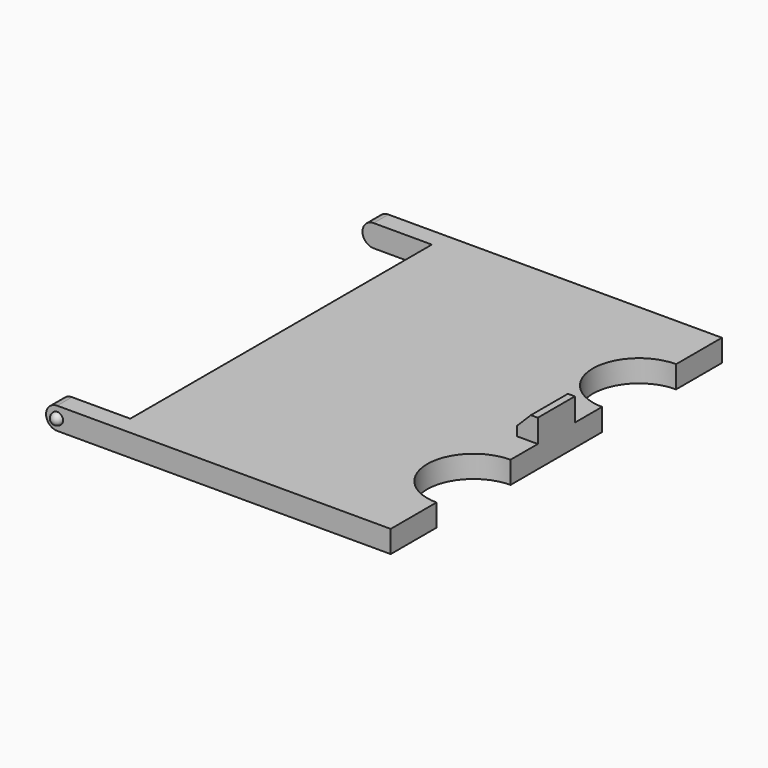
from build123d import *

# Parameters (mm, degrees)
F1_DEPTH  = 4.8
F5_R      = 10
F6_DEPTH  = 4.8010001
F7_W      = 4.5
F7_H      = 10
F8_DEPTH  = 5
F9_SIZE   = 3
F10_DEPTH = 90.7632899895


with BuildPart() as f1:
    # F0 (on Top) → F1 (new body)
    with BuildSketch(Plane.XY):
        Polygon((-37.25, -40.75), (-37.25, -44.75), (37.25, -44.75), (37.25, 44.75), (-37.25, 44.75), (-37.25, 40.75), (-22.25, 40.75), (-22.25, -40.75), align=None)
    extrude(amount=F1_DEPTH)

    # F2 (on face) → F3 (revolve)
    with BuildSketch(Plane.XZ.offset(44.75)):
        with BuildLine():
            Line((-34.8377101105, 1.150060418), (-34.8377101105, 3.649939582))
            ThreePointArc((-34.8377101105, 3.649939582), (-36.1, 2.4), (-34.8377101105, 1.150060418))
        make_face()
    revolve(axis=Axis((-34.8377101105, -44.75, 2.4), (0, 0, -1)))

    # F4: F1 across plane


with BuildPart() as f1_1:
    add(f1.part)
    add(f1.part.mirror(Plane.XZ))

    # F5 (on face) → F6 (cut, through all)
    with BuildSketch(Plane.XY.offset(4.8)):
        with Locations((37.25, 22.375)):
            Circle(F5_R)
        with Locations((37.25, -22.375)):
            Circle(F5_R)
    extrude(amount=-F6_DEPTH, mode=Mode.SUBTRACT)

    # F7 (on face) → F8 (join)
    with BuildSketch(Plane.XY.offset(4.8)):
        with Locations((35, 0)):
            Rectangle(F7_W, F7_H)
    extrude(amount=F8_DEPTH)

    # F9
    f9_edges = [f1_1.edges().sort_by_distance(p)[0] for p in [
        (32.75, 0, 9.8),
    ]]
    chamfer(f9_edges, length=F9_SIZE)

    # F2 (on face) → F10 (cut, through all)
    with BuildSketch(Plane.XZ.offset(44.75)):
        with BuildLine():
            ThreePointArc((-37.25, 2.4), (-36.5470562748, 4.0970562748), (-34.85, 4.8))
            Line((-34.85, 4.8), (-37.25, 4.8))
            Line((-37.25, 4.8), (-37.25, 2.4))
        make_face()
        with BuildLine():
            Line((-37.25, 0), (-34.85, 0))
            ThreePointArc((-34.85, 0), (-36.5470562748, 0.7029437252), (-37.25, 2.4))
            Line((-37.25, 2.4), (-37.25, 0))
        make_face()
    extrude(amount=-F10_DEPTH, mode=Mode.SUBTRACT)


solid = f1_1.part
